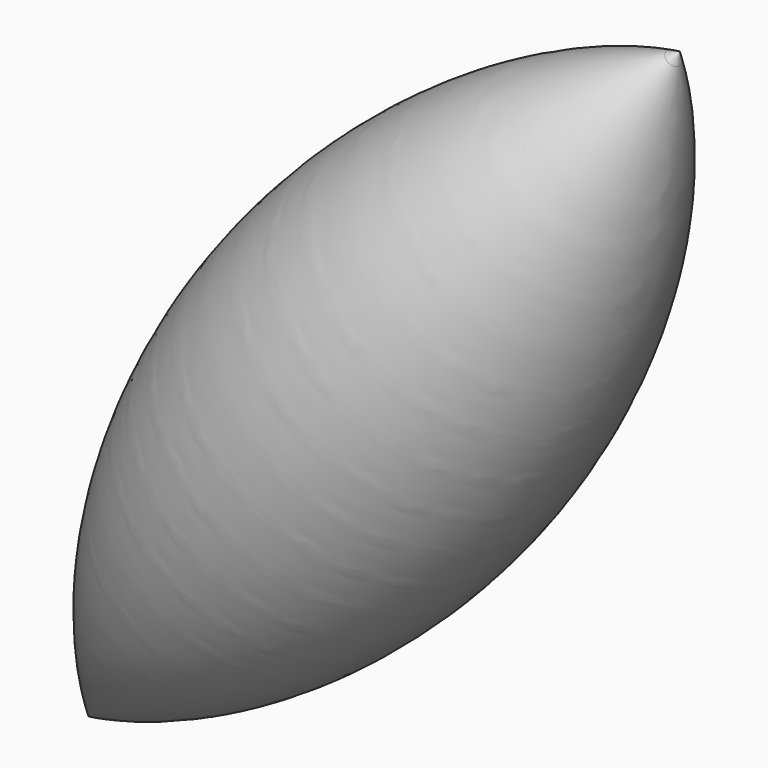
from build123d import *


with BuildPart() as f1:
    # F0 (on Front) → F1 (revolve)
    with BuildSketch(Plane.XZ):
        with BuildLine():
            Line((72.4532027422, 43.1629938129), (-10.393482947, -65.8350010083))
            ThreePointArc((-10.393482947, -65.8350010083), (49.3379918289, -26.3718742927), (72.4675631567, 41.3792170584))
            ThreePointArc((72.4675631567, 41.3792170584), (72.4639729949, 42.2711343376), (72.4532027422, 43.1629938129))
        make_face()
    revolve(axis=Axis((38.2438016416, 0, -1.844915592), (0.6051212765, 0, 0.7961333059)))


solid = f1.part
